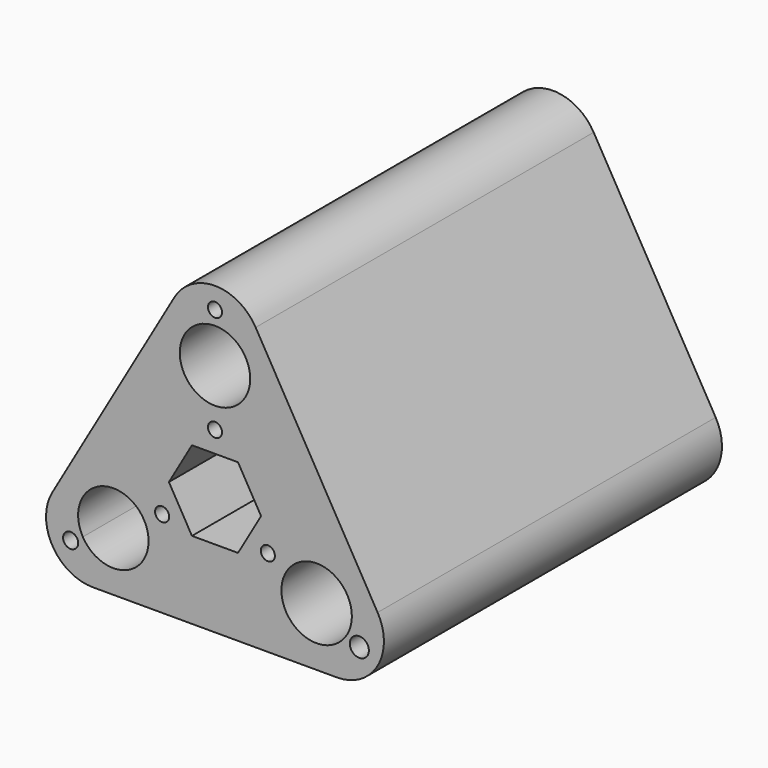
from build123d import *

# Parameters (mm, degrees)
F0_R     = 3
F0_R_2   = 5.5
F0_R_3   = 5
F0_R_4   = 1.5
F1_DEPTH = 21
F0_R_5   = 2.034179683
F0_R_6   = 1.6059835871
F2_DEPTH = 27.5
F3_DEPTH = 45


with BuildPart() as f1:
    # F0 (on Front) → F1 (new body, symmetric)
    with BuildSketch(Plane.XZ):
        with BuildLine():
            Line((-25.9807621135, -25), (25.9807621135, -25))
            ThreePointArc((25.9807621135, -25), (34.6410161514, -20), (34.6410161514, -10))
            Line((34.6410161514, -10), (8.6602540378, 35))
            ThreePointArc((8.6602540378, 35), (0, 40), (-8.6602540378, 35))
            Line((-8.6602540378, 35), (-34.6410161514, -10))
            ThreePointArc((-34.6410161514, -10), (-34.6410161514, -20), (-25.9807621135, -25))
        make_face()
        with BuildLine():
            ThreePointArc((-27.7439018343, -17.75), (-33.6416793203, -18.5264571088), (-28.1458255955, -16.2500000476))
            ThreePointArc((-28.1458255955, -16.2500000476), (-27.8461243484, -16.9735428912), (-27.7439018343, -17.75))
        make_face(mode=Mode.SUBTRACT)
        with BuildLine():
            ThreePointArc((-28.1458255955, -16.2500000476), (-23.5917779594, -5.2555563099), (-14.1506350946, -12.5))
            ThreePointArc((-14.1506350946, -12.5), (-19.7094922298, -19.7444436901), (-28.1458255955, -16.2500000476))
        make_face(mode=Mode.SUBTRACT)
        with Locations((-11.2583302492, -6.5)):
            Circle(F0_R, mode=Mode.SUBTRACT)
        Polygon((-4.9075, -8.5000393381), (-9.815, 0), (-4.9075, 8.5000393381), (4.9075, 8.5000393381), (9.815, 0), (4.9075, -8.5000393381), align=None, mode=Mode.SUBTRACT)
        with BuildLine():
            ThreePointArc((33.7439018343, -17.75), (29.9674447256, -20.647777486), (28.1458255955, -16.2500000476))
            ThreePointArc((28.1458255955, -16.2500000476), (31.5203589431, -14.852222514), (33.7439018343, -17.75))
        make_face(mode=Mode.SUBTRACT)
        with BuildLine():
            ThreePointArc((28.1458255955, -16.2500000476), (14.4061914045, -10.5588571352), (29.1506350946, -12.5))
            ThreePointArc((29.1506350946, -12.5), (28.8950787847, -14.4411428648), (28.1458255955, -16.2500000476))
        make_face(mode=Mode.SUBTRACT)
        with Locations((11.2583302492, -6.5)):
            Circle(F0_R, mode=Mode.SUBTRACT)
        with Locations((0, 13)):
            Circle(F0_R, mode=Mode.SUBTRACT)
        with BuildLine():
            ThreePointArc((2.6e-08, 32.5), (5.3033008681, 30.3033008497), (7.5, 25))
            ThreePointArc((7.5, 25), (-5.3033008681, 19.6966991503), (2.6e-08, 32.5))
        make_face(mode=Mode.SUBTRACT)
        with BuildLine():
            ThreePointArc((3, 35.5), (2.1213203528, 33.3786796656), (2.6e-08, 32.5))
            ThreePointArc((2.6e-08, 32.5), (-2.1213203528, 37.6213203344), (3, 35.5))
        make_face(mode=Mode.SUBTRACT)
        with BuildLine():
            Line((-25.9807621135, -25), (25.9807621135, -25))
            ThreePointArc((25.9807621135, -25), (34.6410161514, -20), (34.6410161514, -10))
            Line((34.6410161514, -10), (8.6602540378, 35))
            ThreePointArc((8.6602540378, 35), (0, 40), (-8.6602540378, 35))
            Line((-8.6602540378, 35), (-34.6410161514, -10))
            ThreePointArc((-34.6410161514, -10), (-34.6410161514, -20), (-25.9807621135, -25))
        make_face()
        with BuildLine():
            ThreePointArc((-27.7439018343, -17.75), (-33.6416793203, -18.5264571088), (-28.1458255955, -16.2500000476))
            ThreePointArc((-28.1458255955, -16.2500000476), (-27.8461243484, -16.9735428912), (-27.7439018343, -17.75))
        make_face(mode=Mode.SUBTRACT)
        with BuildLine():
            ThreePointArc((-28.1458255955, -16.2500000476), (-23.5917779594, -5.2555563099), (-14.1506350946, -12.5))
            ThreePointArc((-14.1506350946, -12.5), (-19.7094922298, -19.7444436901), (-28.1458255955, -16.2500000476))
        make_face(mode=Mode.SUBTRACT)
        with Locations((-11.2583302492, -6.5)):
            Circle(F0_R, mode=Mode.SUBTRACT)
        Polygon((-4.9075, -8.5000393381), (-9.815, 0), (-4.9075, 8.5000393381), (4.9075, 8.5000393381), (9.815, 0), (4.9075, -8.5000393381), align=None, mode=Mode.SUBTRACT)
        with BuildLine():
            ThreePointArc((33.7439018343, -17.75), (29.9674447256, -20.647777486), (28.1458255955, -16.2500000476))
            ThreePointArc((28.1458255955, -16.2500000476), (31.5203589431, -14.852222514), (33.7439018343, -17.75))
        make_face(mode=Mode.SUBTRACT)
        with BuildLine():
            ThreePointArc((28.1458255955, -16.2500000476), (14.4061914045, -10.5588571352), (29.1506350946, -12.5))
            ThreePointArc((29.1506350946, -12.5), (28.8950787847, -14.4411428648), (28.1458255955, -16.2500000476))
        make_face(mode=Mode.SUBTRACT)
        with Locations((11.2583302492, -6.5)):
            Circle(F0_R, mode=Mode.SUBTRACT)
        with Locations((0, 13)):
            Circle(F0_R, mode=Mode.SUBTRACT)
        with BuildLine():
            ThreePointArc((2.6e-08, 32.5), (5.3033008681, 30.3033008497), (7.5, 25))
            ThreePointArc((7.5, 25), (-5.3033008681, 19.6966991503), (2.6e-08, 32.5))
        make_face(mode=Mode.SUBTRACT)
        with BuildLine():
            ThreePointArc((3, 35.5), (2.1213203528, 33.3786796656), (2.6e-08, 32.5))
            ThreePointArc((2.6e-08, 32.5), (-2.1213203528, 37.6213203344), (3, 35.5))
        make_face(mode=Mode.SUBTRACT)
        Polygon((-4.9075, 8.5000393381), (-9.815, 0), (-4.9075, -8.5000393381), (4.9075, -8.5000393381), (9.815, 0), (4.9075, 8.5000393381), align=None)
        Circle(F0_R_2, mode=Mode.SUBTRACT)
        with BuildLine():
            ThreePointArc((-28.1458255955, -16.2500000476), (-19.7094922298, -19.7444436901), (-14.1506350946, -12.5))
            ThreePointArc((-14.1506350946, -12.5), (-23.5917779594, -5.2555563099), (-28.1458255955, -16.2500000476))
        make_face()
        with Locations((-21.6506350946, -12.5)):
            Circle(F0_R_3, mode=Mode.SUBTRACT)
        with BuildLine():
            ThreePointArc((28.1458255955, -16.2500000476), (28.8950787847, -14.4411428648), (29.1506350946, -12.5))
            ThreePointArc((29.1506350946, -12.5), (14.4061914045, -10.5588571352), (28.1458255955, -16.2500000476))
        make_face()
        with Locations((21.6506350946, -12.5)):
            Circle(F0_R_3, mode=Mode.SUBTRACT)
        with BuildLine():
            ThreePointArc((2.6e-08, 32.5), (-5.3033008681, 19.6966991503), (7.5, 25))
            ThreePointArc((7.5, 25), (5.3033008681, 30.3033008497), (2.6e-08, 32.5))
        make_face()
        with Locations((0, 25)):
            Circle(F0_R_3, mode=Mode.SUBTRACT)
        with Locations((0, 13)):
            Circle(F0_R)
        with Locations((0, 13)):
            Circle(F0_R_4, mode=Mode.SUBTRACT)
        with Locations((-11.2583302492, -6.5)):
            Circle(F0_R)
        with Locations((-11.2583302492, -6.5)):
            Circle(F0_R_4, mode=Mode.SUBTRACT)
        with Locations((11.2583302492, -6.5)):
            Circle(F0_R)
        with Locations((11.2583302492, -6.5)):
            Circle(F0_R_4, mode=Mode.SUBTRACT)
        with Locations((0, 13)):
            Circle(F0_R_4)
        with Locations((-11.2583302492, -6.5)):
            Circle(F0_R_4)
        with Locations((11.2583302492, -6.5)):
            Circle(F0_R_4)
    extrude(amount=F1_DEPTH, both=True)

    # F0 (on Front) → F2 (join, symmetric)
    with BuildSketch(Plane.XZ):
        with BuildLine():
            Line((-25.9807621135, -25), (25.9807621135, -25))
            ThreePointArc((25.9807621135, -25), (34.6410161514, -20), (34.6410161514, -10))
            Line((34.6410161514, -10), (8.6602540378, 35))
            ThreePointArc((8.6602540378, 35), (0, 40), (-8.6602540378, 35))
            Line((-8.6602540378, 35), (-34.6410161514, -10))
            ThreePointArc((-34.6410161514, -10), (-34.6410161514, -20), (-25.9807621135, -25))
        make_face()
        with BuildLine():
            ThreePointArc((-27.7439018343, -17.75), (-33.6416793203, -18.5264571088), (-28.1458255955, -16.2500000476))
            ThreePointArc((-28.1458255955, -16.2500000476), (-27.8461243484, -16.9735428912), (-27.7439018343, -17.75))
        make_face(mode=Mode.SUBTRACT)
        with BuildLine():
            ThreePointArc((-28.1458255955, -16.2500000476), (-23.5917779594, -5.2555563099), (-14.1506350946, -12.5))
            ThreePointArc((-14.1506350946, -12.5), (-19.7094922298, -19.7444436901), (-28.1458255955, -16.2500000476))
        make_face(mode=Mode.SUBTRACT)
        with Locations((-11.2583302492, -6.5)):
            Circle(F0_R, mode=Mode.SUBTRACT)
        Polygon((-4.9075, -8.5000393381), (-9.815, 0), (-4.9075, 8.5000393381), (4.9075, 8.5000393381), (9.815, 0), (4.9075, -8.5000393381), align=None, mode=Mode.SUBTRACT)
        with BuildLine():
            ThreePointArc((33.7439018343, -17.75), (29.9674447256, -20.647777486), (28.1458255955, -16.2500000476))
            ThreePointArc((28.1458255955, -16.2500000476), (31.5203589431, -14.852222514), (33.7439018343, -17.75))
        make_face(mode=Mode.SUBTRACT)
        with BuildLine():
            ThreePointArc((28.1458255955, -16.2500000476), (14.4061914045, -10.5588571352), (29.1506350946, -12.5))
            ThreePointArc((29.1506350946, -12.5), (28.8950787847, -14.4411428648), (28.1458255955, -16.2500000476))
        make_face(mode=Mode.SUBTRACT)
        with Locations((11.2583302492, -6.5)):
            Circle(F0_R, mode=Mode.SUBTRACT)
        with Locations((0, 13)):
            Circle(F0_R, mode=Mode.SUBTRACT)
        with BuildLine():
            ThreePointArc((2.6e-08, 32.5), (5.3033008681, 30.3033008497), (7.5, 25))
            ThreePointArc((7.5, 25), (-5.3033008681, 19.6966991503), (2.6e-08, 32.5))
        make_face(mode=Mode.SUBTRACT)
        with BuildLine():
            ThreePointArc((3, 35.5), (2.1213203528, 33.3786796656), (2.6e-08, 32.5))
            ThreePointArc((2.6e-08, 32.5), (-2.1213203528, 37.6213203344), (3, 35.5))
        make_face(mode=Mode.SUBTRACT)
        with BuildLine():
            ThreePointArc((33.7439018343, -17.75), (31.5203589431, -14.852222514), (28.1458255955, -16.2500000476))
            ThreePointArc((28.1458255955, -16.2500000476), (29.9674447256, -20.647777486), (33.7439018343, -17.75))
        make_face()
        with Locations((30.7439018343, -17.75)):
            Circle(F0_R_5, mode=Mode.SUBTRACT)
        with BuildLine():
            ThreePointArc((-27.7439018343, -17.75), (-27.8461243484, -16.9735428912), (-28.1458255955, -16.2500000476))
            ThreePointArc((-28.1458255955, -16.2500000476), (-33.6416793203, -18.5264571088), (-27.7439018343, -17.75))
        make_face()
        with Locations((-30.7439018343, -17.75)):
            Circle(F0_R_6, mode=Mode.SUBTRACT)
        with BuildLine():
            ThreePointArc((3, 35.5), (-2.1213203528, 37.6213203344), (2.6e-08, 32.5))
            ThreePointArc((2.6e-08, 32.5), (2.1213203528, 33.3786796656), (3, 35.5))
        make_face()
        with Locations((0, 35.5)):
            Circle(F0_R_4, mode=Mode.SUBTRACT)
        with Locations((0, 13)):
            Circle(F0_R)
        with Locations((0, 13)):
            Circle(F0_R_4, mode=Mode.SUBTRACT)
        with Locations((0, 13)):
            Circle(F0_R_4)
        with Locations((11.2583302492, -6.5)):
            Circle(F0_R)
        with Locations((11.2583302492, -6.5)):
            Circle(F0_R_4, mode=Mode.SUBTRACT)
        with Locations((11.2583302492, -6.5)):
            Circle(F0_R_4)
        with Locations((-11.2583302492, -6.5)):
            Circle(F0_R)
        with Locations((-11.2583302492, -6.5)):
            Circle(F0_R_4, mode=Mode.SUBTRACT)
        with Locations((-11.2583302492, -6.5)):
            Circle(F0_R_4)
        Polygon((-4.9075, 8.5000393381), (-9.815, 0), (-4.9075, -8.5000393381), (4.9075, -8.5000393381), (9.815, 0), (4.9075, 8.5000393381), align=None)
        Circle(F0_R_2, mode=Mode.SUBTRACT)
        with Locations((0, 35.5)):
            Circle(F0_R_4)
        with Locations((30.7439018343, -17.75)):
            Circle(F0_R_5)
        with Locations((-30.7439018343, -17.75)):
            Circle(F0_R_6)
    extrude(amount=F2_DEPTH, both=True)

    # F0 (on Front) → F3 (join, symmetric)
    with BuildSketch(Plane.XZ):
        with BuildLine():
            Line((-25.9807621135, -25), (25.9807621135, -25))
            ThreePointArc((25.9807621135, -25), (34.6410161514, -20), (34.6410161514, -10))
            Line((34.6410161514, -10), (8.6602540378, 35))
            ThreePointArc((8.6602540378, 35), (0, 40), (-8.6602540378, 35))
            Line((-8.6602540378, 35), (-34.6410161514, -10))
            ThreePointArc((-34.6410161514, -10), (-34.6410161514, -20), (-25.9807621135, -25))
        make_face()
        with BuildLine():
            ThreePointArc((-27.7439018343, -17.75), (-33.6416793203, -18.5264571088), (-28.1458255955, -16.2500000476))
            ThreePointArc((-28.1458255955, -16.2500000476), (-27.8461243484, -16.9735428912), (-27.7439018343, -17.75))
        make_face(mode=Mode.SUBTRACT)
        with BuildLine():
            ThreePointArc((-28.1458255955, -16.2500000476), (-23.5917779594, -5.2555563099), (-14.1506350946, -12.5))
            ThreePointArc((-14.1506350946, -12.5), (-19.7094922298, -19.7444436901), (-28.1458255955, -16.2500000476))
        make_face(mode=Mode.SUBTRACT)
        with Locations((-11.2583302492, -6.5)):
            Circle(F0_R, mode=Mode.SUBTRACT)
        Polygon((-4.9075, -8.5000393381), (-9.815, 0), (-4.9075, 8.5000393381), (4.9075, 8.5000393381), (9.815, 0), (4.9075, -8.5000393381), align=None, mode=Mode.SUBTRACT)
        with BuildLine():
            ThreePointArc((33.7439018343, -17.75), (29.9674447256, -20.647777486), (28.1458255955, -16.2500000476))
            ThreePointArc((28.1458255955, -16.2500000476), (31.5203589431, -14.852222514), (33.7439018343, -17.75))
        make_face(mode=Mode.SUBTRACT)
        with BuildLine():
            ThreePointArc((28.1458255955, -16.2500000476), (14.4061914045, -10.5588571352), (29.1506350946, -12.5))
            ThreePointArc((29.1506350946, -12.5), (28.8950787847, -14.4411428648), (28.1458255955, -16.2500000476))
        make_face(mode=Mode.SUBTRACT)
        with Locations((11.2583302492, -6.5)):
            Circle(F0_R, mode=Mode.SUBTRACT)
        with Locations((0, 13)):
            Circle(F0_R, mode=Mode.SUBTRACT)
        with BuildLine():
            ThreePointArc((2.6e-08, 32.5), (5.3033008681, 30.3033008497), (7.5, 25))
            ThreePointArc((7.5, 25), (-5.3033008681, 19.6966991503), (2.6e-08, 32.5))
        make_face(mode=Mode.SUBTRACT)
        with BuildLine():
            ThreePointArc((3, 35.5), (2.1213203528, 33.3786796656), (2.6e-08, 32.5))
            ThreePointArc((2.6e-08, 32.5), (-2.1213203528, 37.6213203344), (3, 35.5))
        make_face(mode=Mode.SUBTRACT)
        with BuildLine():
            ThreePointArc((33.7439018343, -17.75), (31.5203589431, -14.852222514), (28.1458255955, -16.2500000476))
            ThreePointArc((28.1458255955, -16.2500000476), (29.9674447256, -20.647777486), (33.7439018343, -17.75))
        make_face()
        with Locations((30.7439018343, -17.75)):
            Circle(F0_R_5, mode=Mode.SUBTRACT)
        with BuildLine():
            ThreePointArc((-27.7439018343, -17.75), (-27.8461243484, -16.9735428912), (-28.1458255955, -16.2500000476))
            ThreePointArc((-28.1458255955, -16.2500000476), (-33.6416793203, -18.5264571088), (-27.7439018343, -17.75))
        make_face()
        with Locations((-30.7439018343, -17.75)):
            Circle(F0_R_6, mode=Mode.SUBTRACT)
        with BuildLine():
            ThreePointArc((3, 35.5), (-2.1213203528, 37.6213203344), (2.6e-08, 32.5))
            ThreePointArc((2.6e-08, 32.5), (2.1213203528, 33.3786796656), (3, 35.5))
        make_face()
        with Locations((0, 35.5)):
            Circle(F0_R_4, mode=Mode.SUBTRACT)
        with Locations((0, 13)):
            Circle(F0_R)
        with Locations((0, 13)):
            Circle(F0_R_4, mode=Mode.SUBTRACT)
        with Locations((11.2583302492, -6.5)):
            Circle(F0_R)
        with Locations((11.2583302492, -6.5)):
            Circle(F0_R_4, mode=Mode.SUBTRACT)
        with Locations((-11.2583302492, -6.5)):
            Circle(F0_R)
        with Locations((-11.2583302492, -6.5)):
            Circle(F0_R_4, mode=Mode.SUBTRACT)
    extrude(amount=F3_DEPTH, both=True)


solid = f1.part
